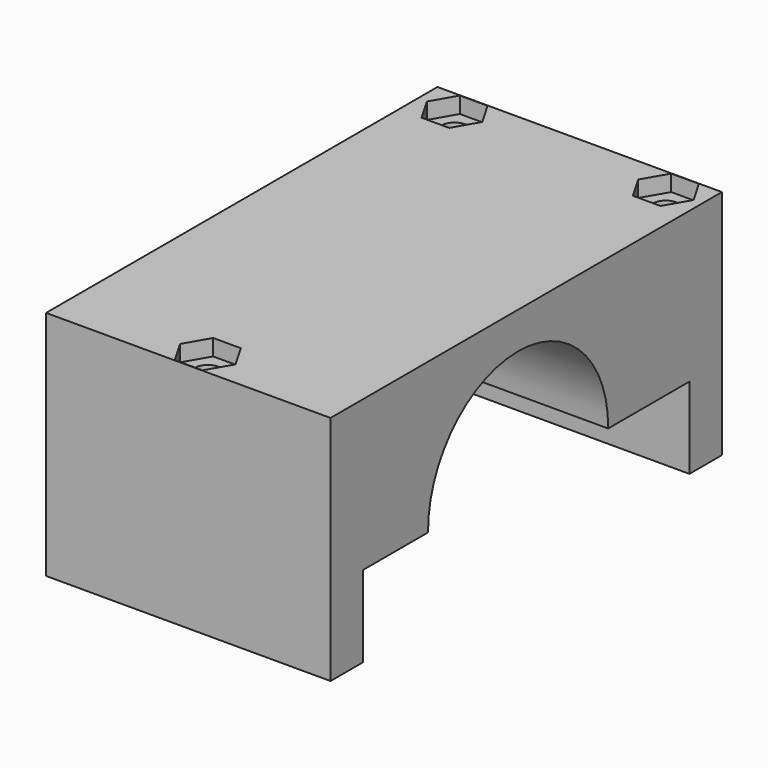
from build123d import *

# Parameters (mm, degrees)
F1_DEPTH = 35
F2_R     = 1.6
F3_DEPTH = 28.5
F5_DEPTH = 2


with BuildPart() as f1:
    # F0 (on Right) → F1 (new body)
    with BuildSketch(Plane.YZ):
        with BuildLine():
            Line((0, 0), (0, 28.5))
            Line((0, 28.5), (-60.2, 28.5))
            Line((-60.2, 28.5), (-60.2, 0))
            Line((-60.2, 0), (-55.2, 0))
            Line((-55.2, 0), (-55.2, 10))
            Line((-55.2, 10), (-45.2, 10))
            ThreePointArc((-45.2, 10), (-31.35, 24), (-17.5, 10))
            Line((-17.5, 10), (-5, 10))
            Line((-5, 10), (-5, 0))
            Line((-5, 0), (0, 0))
        make_face()
    extrude(amount=F1_DEPTH)

    # F2 (on face) → F3 (cut, through all)
    with BuildSketch(Plane.XY.offset(28.5)):
        with Locations((4.5, -3)):
            Circle(F2_R)
        with Locations((30.5, -3)):
            Circle(F2_R)
        with Locations((17.5, -57.2)):
            Circle(F2_R)
    extrude(amount=-F3_DEPTH, mode=Mode.SUBTRACT)

    # F4 (on face) → F5 (cut)
    with BuildSketch(Plane.XY.offset(28.5)):
        Polygon((2.796817, -5.95), (6.203183, -5.95), (7.906367, -3), (6.203183, -0.05), (2.796817, -0.05), (1.093633, -3), align=None)
        Polygon((28.796817, -5.95), (32.203183, -5.95), (33.906367, -3), (32.203183, -0.05), (28.796817, -0.05), (27.093633, -3), align=None)
        Polygon((19.203183, -54.25), (15.796817, -54.25), (14.093633, -57.2), (15.796817, -60.15), (19.203183, -60.15), (20.906367, -57.2), align=None)
    extrude(amount=-F5_DEPTH, mode=Mode.SUBTRACT)


solid = f1.part
